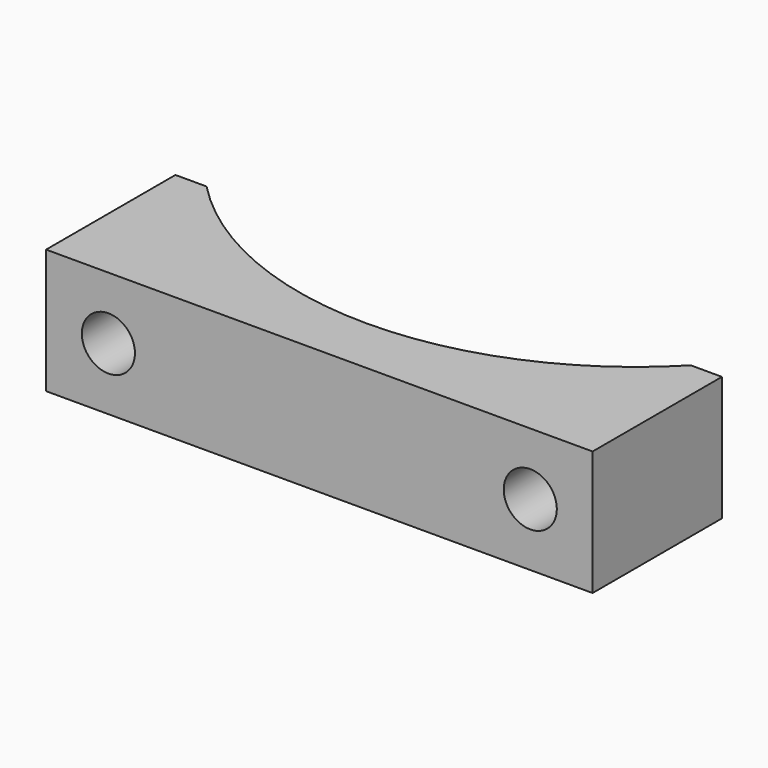
from build123d import *

# Parameters (mm, degrees)
F1_DEPTH = 6.35
F2_R     = 1.35255
F3_DEPTH = 4.7625


with BuildPart() as f1:
    # F0 (on Top) → F1 (new body)
    with BuildSketch(Plane.XY):
        with BuildLine():
            ThreePointArc((12.334667, -11.908275), (0, -17.145), (-12.334667, -11.908275))
            Line((-12.334667, -11.908275), (-13.922167, -11.908275))
            Line((-13.922167, -11.908275), (-13.922167, -20.14474))
            Line((-13.922167, -20.14474), (13.922167, -20.14474))
            Line((13.922167, -20.14474), (13.922167, -11.908275))
            Line((13.922167, -11.908275), (12.334667, -11.908275))
        make_face()
    extrude(amount=F1_DEPTH)

    # F2 (on face) → F3 (cut)
    with BuildSketch(Plane.XZ.offset(20.14474)):
        with Locations((-10.747167, 3.175)):
            Circle(F2_R)
        with Locations((10.747167, 3.175)):
            Circle(F2_R)
    extrude(amount=-F3_DEPTH, mode=Mode.SUBTRACT)


solid = f1.part
